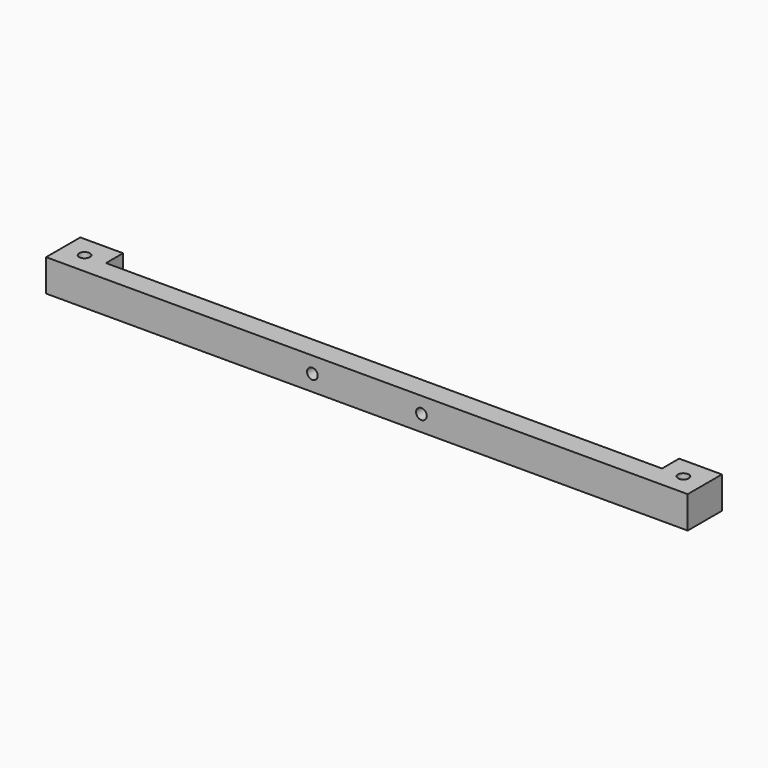
from build123d import *

# Parameters (mm, degrees)
F0_W     = 300
F0_H     = 15
F1_DEPTH = 10
F2_W     = 20
F2_H     = 15
F3_DEPTH = 10
F4_R     = 2.5
F5_DEPTH = 25
F6_R     = 2.5
F7_DEPTH = 25


with BuildPart() as f1:
    # F0 (on Front) → F1 (new body)
    with BuildSketch(Plane.XZ):
        Rectangle(F0_W, F0_H)
    extrude(amount=F1_DEPTH)

    # F2 (on face) → F3 (join)
    with BuildSketch(Plane(origin=(0, 0, 0), x_dir=(-1, 0, 0), z_dir=(0, 1, 0))):
        with Locations((-140, 0)):
            Rectangle(F2_W, F2_H)
        with Locations((140, 0)):
            Rectangle(F2_W, F2_H)
    extrude(amount=F3_DEPTH)

    # F4 (on face) → F5 (cut)
    with BuildSketch(Plane.XY.offset(7.5)):
        with Locations((140, 0)):
            Circle(F4_R)
        with Locations((-140, 0)):
            Circle(F4_R)
    extrude(amount=-F5_DEPTH, mode=Mode.SUBTRACT)

    # F6 (on face) → F7 (cut)
    with BuildSketch(Plane(origin=(0, 0, 0), x_dir=(-1, 0, 0), z_dir=(0, 1, 0))):
        with Locations((-25.5, 0)):
            Circle(F6_R)
        with Locations((25.5, 0)):
            Circle(F6_R)
    extrude(amount=-F7_DEPTH, mode=Mode.SUBTRACT)


solid = f1.part
